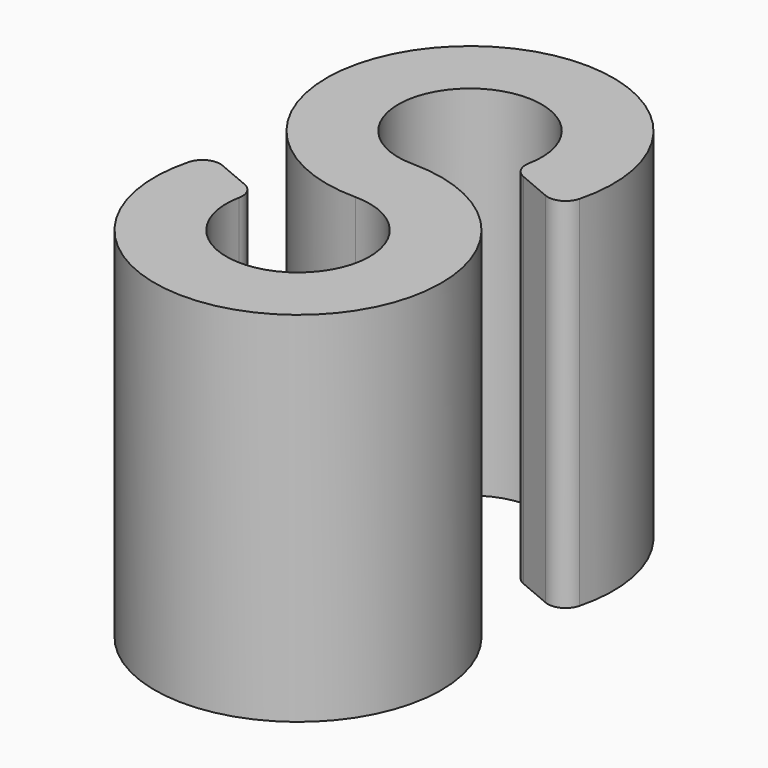
from build123d import *

# Parameters (mm, degrees)
F1_DEPTH = 10


with BuildPart() as f1:
    # F0 (on Top) → F1 (new body)
    with BuildSketch(Plane.XY):
        with BuildLine():
            ThreePointArc((0, -2), (-1.26591, 1.548377), (1.960106, -0.397472))
            ThreePointArc((1.960106, -0.397472), (2.007714, -0.729789), (2.254767, -0.957092))
            Line((2.254767, -0.957092), (3.188722, -1.353532))
            ThreePointArc((3.188722, -1.353532), (3.604109, -1.342268), (3.867529, -1.020891))
            ThreePointArc((3.867529, -1.020891), (-2.440946, 3.168877), (0, -4))
            ThreePointArc((0, -4), (1.26591, -7.548377), (-1.960106, -5.602528))
            ThreePointArc((-1.960106, -5.602528), (-2.007714, -5.270211), (-2.254767, -5.042908))
            Line((-2.254767, -5.042908), (-3.188722, -4.646468))
            ThreePointArc((-3.188722, -4.646468), (-3.604109, -4.657732), (-3.867529, -4.979109))
            ThreePointArc((-3.867529, -4.979109), (2.440946, -9.168877), (0, -2))
        make_face()
    extrude(amount=F1_DEPTH)


solid = f1.part
